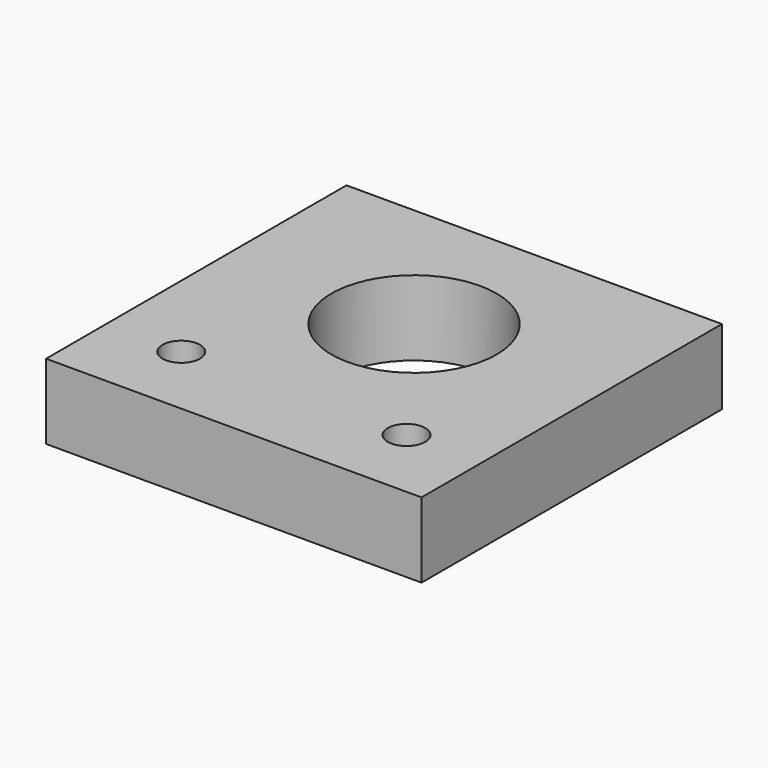
from build123d import *

# Parameters (mm, degrees)
F0_W     = 50
F0_H     = 50
F0_R     = 2.5
F0_R_2   = 11
F1_DEPTH = 10


with BuildPart() as f1:
    # F0 (on Top) → F1 (new body)
    with BuildSketch(Plane.XY):
        Rectangle(F0_W, F0_H)
        with Locations((-15, -15)):
            Circle(F0_R, mode=Mode.SUBTRACT)
        with Locations((15, -15)):
            Circle(F0_R, mode=Mode.SUBTRACT)
        with Locations((0, 5)):
            Circle(F0_R_2, mode=Mode.SUBTRACT)
    extrude(amount=F1_DEPTH)


solid = f1.part
